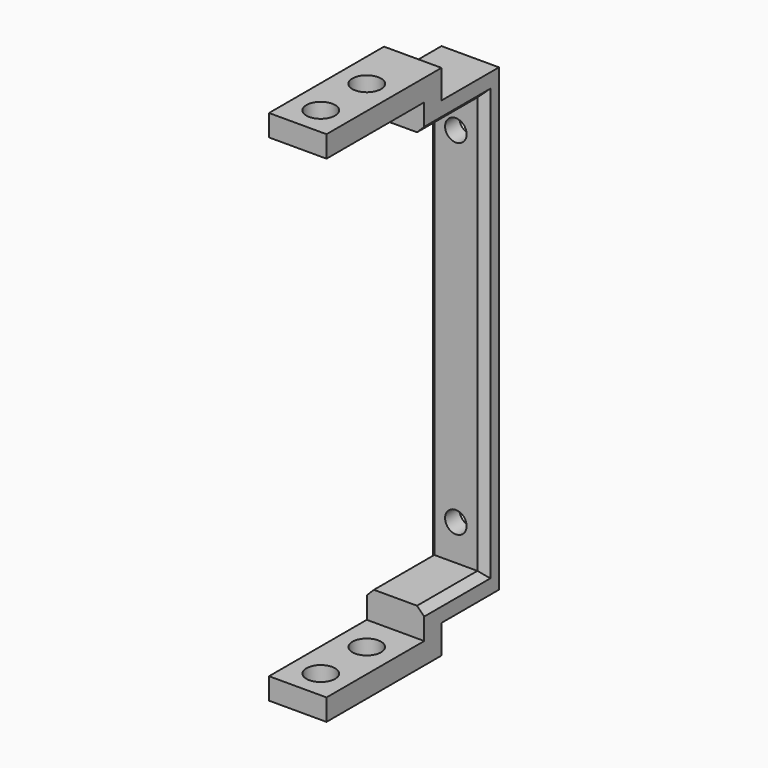
from build123d import *

# Parameters (mm, degrees)
F1_DEPTH = 8
F2_W     = 6.02
F2_H     = 5
F3_DEPTH = 72
F4_R     = 1.5
F5_DEPTH = 25
F6_R     = 2
F7_DEPTH = 72
F8_SIZE  = 1


with BuildPart() as f1:
    # F0 (on Right) → F1 (new body)
    with BuildSketch(Plane.YZ):
        Polygon((24, 36), (4, 36), (4, 33), (21, 33), (21, 29), (31.5, 29), (31.5, -29), (21, -29), (21, -33), (4, -33), (4, -36), (24, -36), (24, -32), (34, -32), (34, -15.6872682273), (34, 32), (24, 32), align=None)
    extrude(amount=F1_DEPTH)

    # F2 (on face) → F3 (cut)
    with BuildSketch(Plane.XY.offset(36)):
        with Locations((3.01, 1.5)):
            Rectangle(F2_W, F2_H)
    extrude(amount=-F3_DEPTH, mode=Mode.SUBTRACT)

    # F4 (on face) → F5 (cut)
    with BuildSketch(Plane(origin=(0, 34, 0), x_dir=(-1, 0, 0), z_dir=(0, 1, 0))):
        with Locations((-4, 24)):
            Circle(F4_R)
        with Locations((-4, -24)):
            Circle(F4_R)
    extrude(amount=-F5_DEPTH, mode=Mode.SUBTRACT)

    # F6 (on face) → F7 (cut)
    with BuildSketch(Plane.XY.offset(36)):
        with Locations((4, 16)):
            Circle(F6_R)
        with Locations((4, 8)):
            Circle(F6_R)
    extrude(amount=-F7_DEPTH, mode=Mode.SUBTRACT)

    # F8
    f8_edges = [f1.edges().sort_by_distance(p)[0] for p in [
        (8, 31.5, 0),
        (0, 31.5, 0),
        (8, 26.25, 29),
        (0, 26.25, 29),
        (8, 26.25, -29),
        (0, 26.25, -29),
    ]]
    chamfer(f8_edges, length=F8_SIZE)


solid = f1.part
